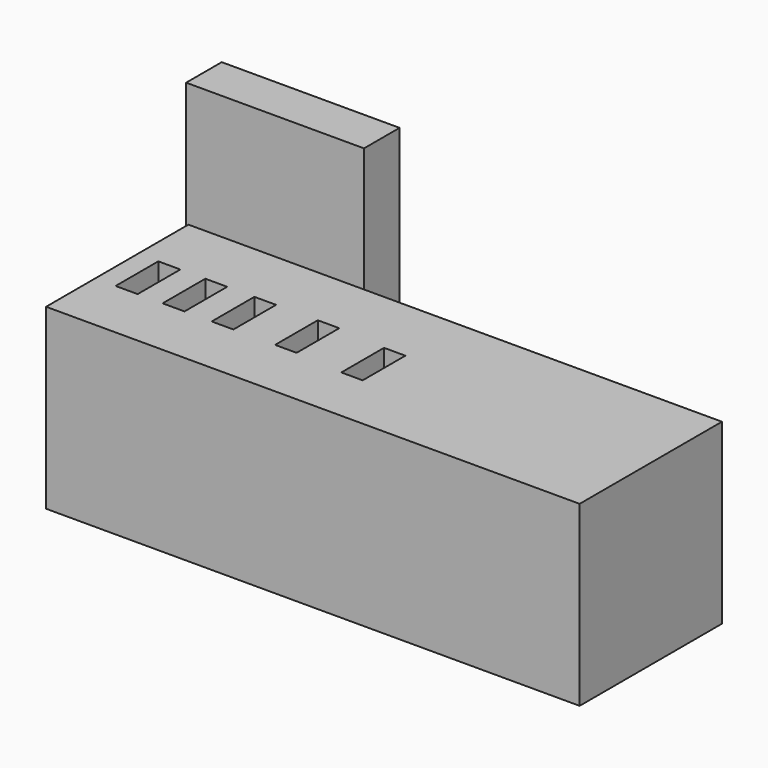
from build123d import *

# Parameters (mm, degrees)
F0_W     = 25.4
F0_H     = 6.35
F0_W_2   = 76.2
F0_H_2   = 25.4
F0_W_3   = 3.1496
F0_H_3   = 7.62
F0_W_4   = 3.1242
F0_W_5   = 3.0988
F0_W_6   = 3.0734
F0_W_7   = 3.048
F1_DEPTH = 25.4


with BuildPart() as f1:
    # F0 (on Top) → F1 (new body)
    with BuildSketch(Plane.XY):
        with Locations((-60.155823, 22.046551)):
            Rectangle(F0_W, F0_H)
        with Locations((-13.147284, -20.442827)):
            Rectangle(F0_W_2, F0_H_2)
        with Locations((-46.752408, -20.572608)):
            Rectangle(F0_W_3, F0_H_3, mode=Mode.SUBTRACT)
        with Locations((-40.048942, -20.572608)):
            Rectangle(F0_W_4, F0_H_3, mode=Mode.SUBTRACT)
        with Locations((-33.053466, -20.572608)):
            Rectangle(F0_W_5, F0_H_3, mode=Mode.SUBTRACT)
        with Locations((-24.013939, -20.572608)):
            Rectangle(F0_W_6, F0_H_3, mode=Mode.SUBTRACT)
        with Locations((-14.098391, -21.156624)):
            Rectangle(F0_W_7, F0_H_3, mode=Mode.SUBTRACT)
    extrude(amount=F1_DEPTH)


solid = f1.part
